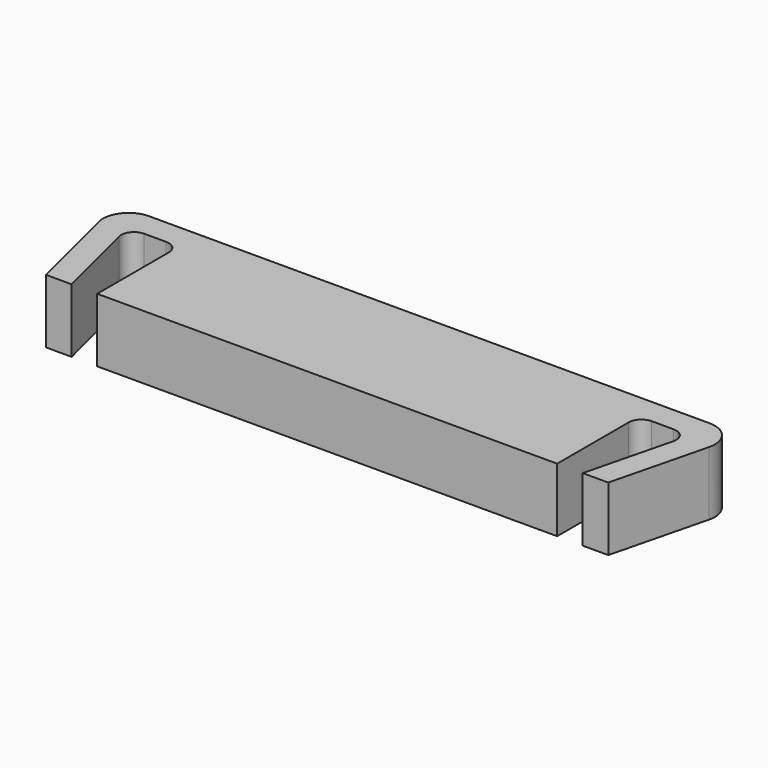
from build123d import *

# Parameters (mm, degrees)
F1_DEPTH = 5


with BuildPart() as f1:
    # F0 (on Top) → F1 (new body)
    with BuildSketch(Plane.XY):
        with BuildLine():
            Line((-18, 0), (0, 0))
            Line((0, 0), (18, 0))
            Line((18, 0), (18, 7))
            ThreePointArc((18, 7), (18.292893, 7.707107), (19, 8))
            Line((19, 8), (20.719224, 8))
            ThreePointArc((20.719224, 8), (21.507429, 7.615412), (21.689366, 6.757464))
            Line((21.689366, 6.757464), (20, 0))
            Line((20, 0), (22, 0))
            Line((22, 0), (23.878732, 7.514929))
            ThreePointArc((23.878732, 7.514929), (23.514858, 9.230824), (21.938447, 10))
            Line((21.938447, 10), (-21.938447, 10))
            ThreePointArc((-21.938447, 10), (-23.514858, 9.230824), (-23.878732, 7.514929))
            Line((-23.878732, 7.514929), (-22, 0))
            Line((-22, 0), (-20, 0))
            Line((-20, 0), (-21.689366, 6.757464))
            ThreePointArc((-21.689366, 6.757464), (-21.507429, 7.615412), (-20.719224, 8))
            Line((-20.719224, 8), (-19, 8))
            ThreePointArc((-19, 8), (-18.292893, 7.707107), (-18, 7))
            Line((-18, 7), (-18, 0))
        make_face()
    extrude(amount=F1_DEPTH)


solid = f1.part
